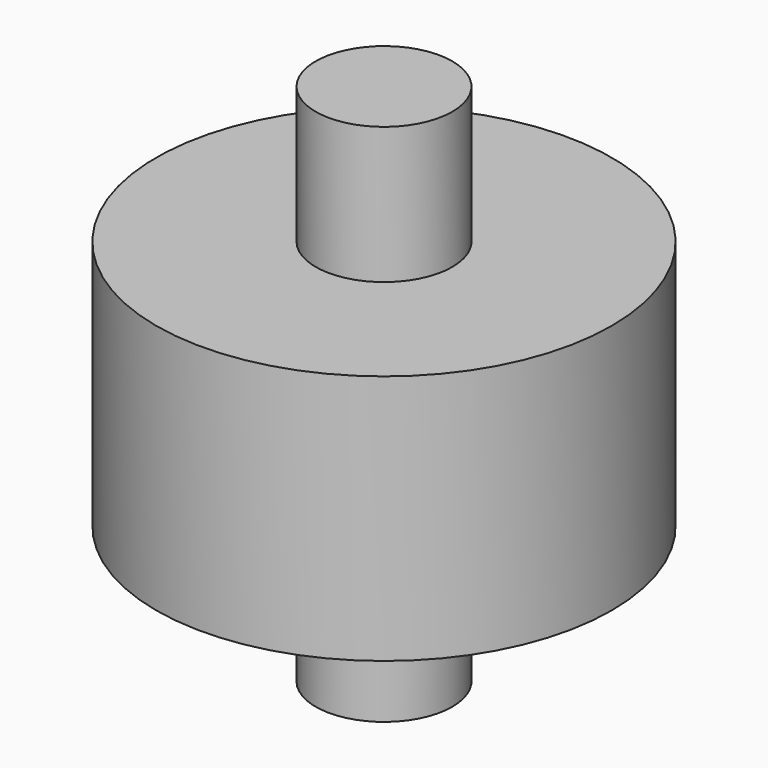
from build123d import *

# Parameters (mm, degrees)
SKETCH_R          = 5
PAD_DEPTH         = 5.5
SKETCH001_R       = 1.5
PAD001_DEPTH      = 3
PAD001_DEPTH_BACK = 8.5


with BuildPart() as part:
    # Sketch → Pad (new body)
    with BuildSketch(Plane.XY):
        Circle(SKETCH_R)
    extrude(amount=PAD_DEPTH)

    # Sketch001 → Pad001 (new body, two sides)
    with BuildSketch(Plane.XY.offset(5.5)) as pad001_sk:
        Circle(SKETCH001_R)
    extrude(amount=PAD001_DEPTH)
    extrude(pad001_sk.sketch, amount=-PAD001_DEPTH_BACK)


solid = part.part
